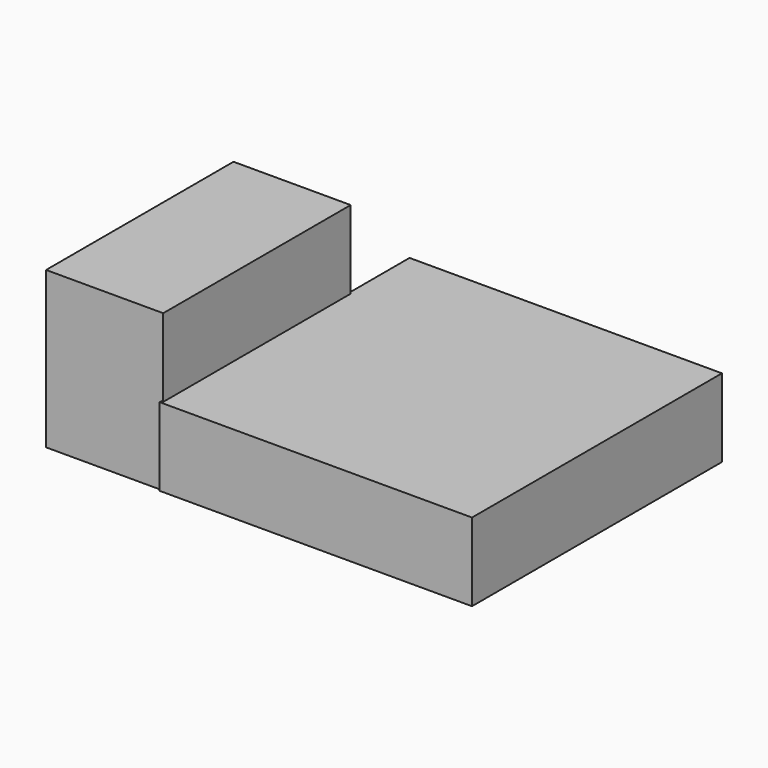
from build123d import *

# Parameters (mm, degrees)
F0_W     = 40
F0_H     = 40
F1_DEPTH = 10
F2_W     = 15
F2_H     = 30
F3_DEPTH = 20


with BuildPart() as f1:
    # F0 (on Top) → F1 (new body)
    with BuildSketch(Plane.XY):
        with Locations((-37.6905664057, 35.6280044466)):
            Rectangle(F0_W, F0_H)
    extrude(amount=F1_DEPTH)

    # F2 (on Top) → F3 (join)
    with BuildSketch(Plane.XY):
        with Locations((-64.9399459362, 30.8906082064)):
            Rectangle(F2_W, F2_H)
    extrude(amount=F3_DEPTH)


solid = f1.part
